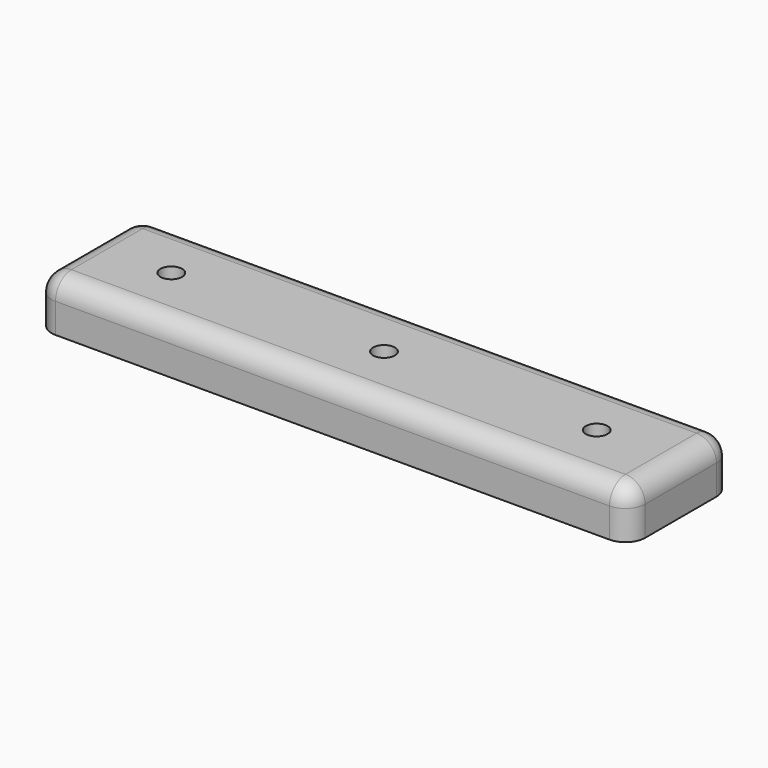
from build123d import *

# Parameters (mm, degrees)
F0_W     = 60
F0_H     = 13
F0_R     = 1.1
F1_DEPTH = 5
F2_R     = 2
F3_SIZE  = 1


with BuildPart() as f1:
    # F0 (on Top) → F1 (new body)
    with BuildSketch(Plane.XY):
        with Locations((-4.228717, -2.739199)):
            Rectangle(F0_W, F0_H)
        with Locations((-25.728717, -2.739199)):
            Circle(F0_R, mode=Mode.SUBTRACT)
        with Locations((-4.228717, -2.739199)):
            Circle(F0_R, mode=Mode.SUBTRACT)
        with Locations((17.271283, -2.739199)):
            Circle(F0_R, mode=Mode.SUBTRACT)
    extrude(amount=F1_DEPTH)

    # F2
    f2_edges = [f1.edges().sort_by_distance(p)[0] for p in [
        (-4.228717, -9.239199, 5),
        (25.771283, -2.739199, 5),
        (25.771283, -9.239199, 2.5),
        (-4.228717, 3.760801, 5),
        (-34.228717, -2.739199, 5),
        (-34.228717, -9.239199, 2.5),
        (25.771283, 3.760801, 2.5),
        (-34.228717, 3.760801, 2.5),
    ]]
    fillet(f2_edges, radius=F2_R)

    # F3
    f3_edges = [f1.edges().sort_by_distance(p)[0] for p in [
        (-5.328717, -2.739199, 0),
        (16.171283, -2.739199, 0),
        (-26.828717, -2.739199, 0),
    ]]
    chamfer(f3_edges, length=F3_SIZE)


solid = f1.part
